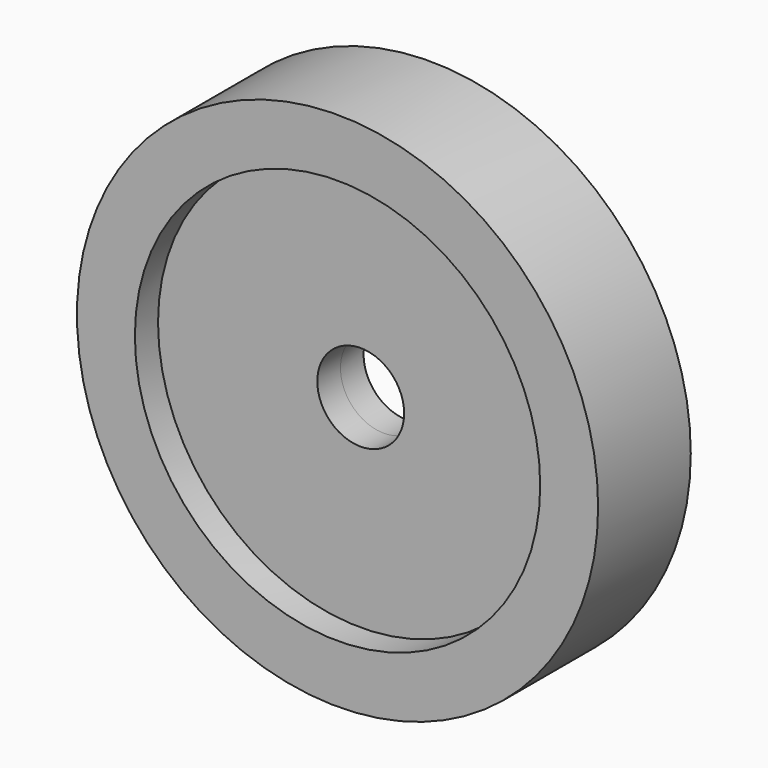
from build123d import *

# Parameters (mm, degrees)
F0_R          = 90
F0_R_2        = 70
F1_DEPTH      = 20
F1_DEPTH_BACK = 20
F0_R_3        = 15
F2_DEPTH      = 10
F2_DEPTH_BACK = 10


with BuildPart() as f1:
    # F0 (on Front) → F1 (new body, two sides)
    with BuildSketch(Plane.XZ) as f1_sk:
        with Locations((-22.680921, 0)):
            Circle(F0_R)
        with Locations((-22.680921, 0)):
            Circle(F0_R_2, mode=Mode.SUBTRACT)
    extrude(amount=F1_DEPTH)
    extrude(f1_sk.sketch, amount=-F1_DEPTH_BACK)

    # F0 (on Front) → F2 (join, two sides)
    with BuildSketch(Plane.XZ) as f2_sk:
        with Locations((-22.680921, 0)):
            Circle(F0_R_2)
        with Locations((-22.680921, 0)):
            Circle(F0_R_3, mode=Mode.SUBTRACT)
    extrude(amount=F2_DEPTH)
    extrude(f2_sk.sketch, amount=-F2_DEPTH_BACK)


solid = f1.part
